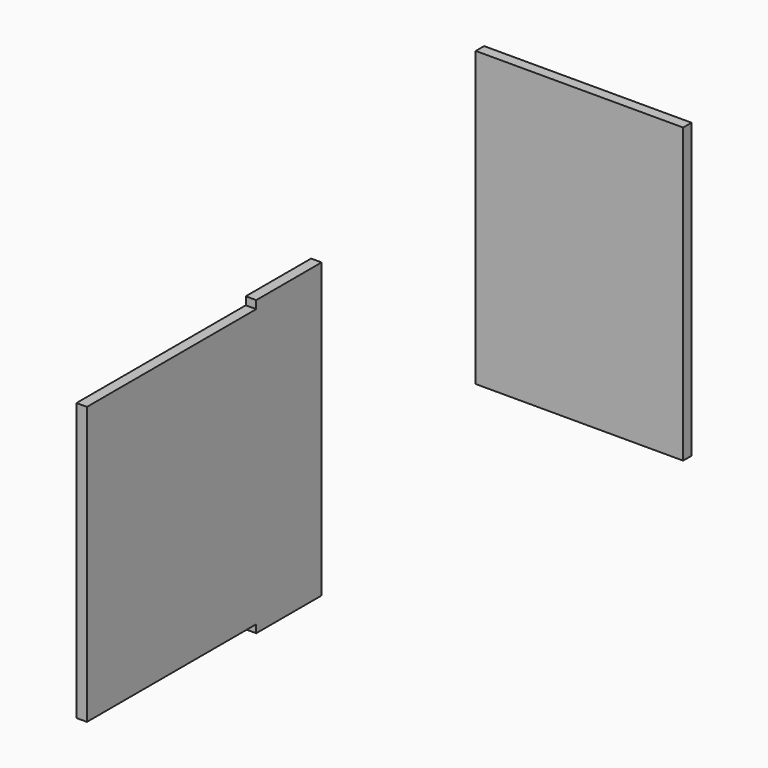
from build123d import *

# Parameters (mm, degrees)
F0_W     = 495
F0_H     = 700
F1_DEPTH = 25
F3_DEPTH = 25


with BuildPart() as f1:
    # F0 (on Front) → F1 (new body)
    with BuildSketch(Plane.XZ):
        with Locations((-22.16777, -1.409045)):
            Rectangle(F0_W, F0_H)
    extrude(amount=F1_DEPTH)


with BuildPart() as f3:
    # F2 (on Right) → F3 (new body)
    with BuildSketch(Plane.YZ):
        Polygon((-853.254856, -363.258868), (-853.254856, 336.741132), (-1048.254856, 336.741132), (-1048.254856, 317.741132), (-1553.254856, 317.741132), (-1553.254856, -344.258868), (-1048.254856, -344.258868), (-1048.254856, -363.258868), align=None)
    extrude(amount=F3_DEPTH)


solid = Compound([f1.part, f3.part])
